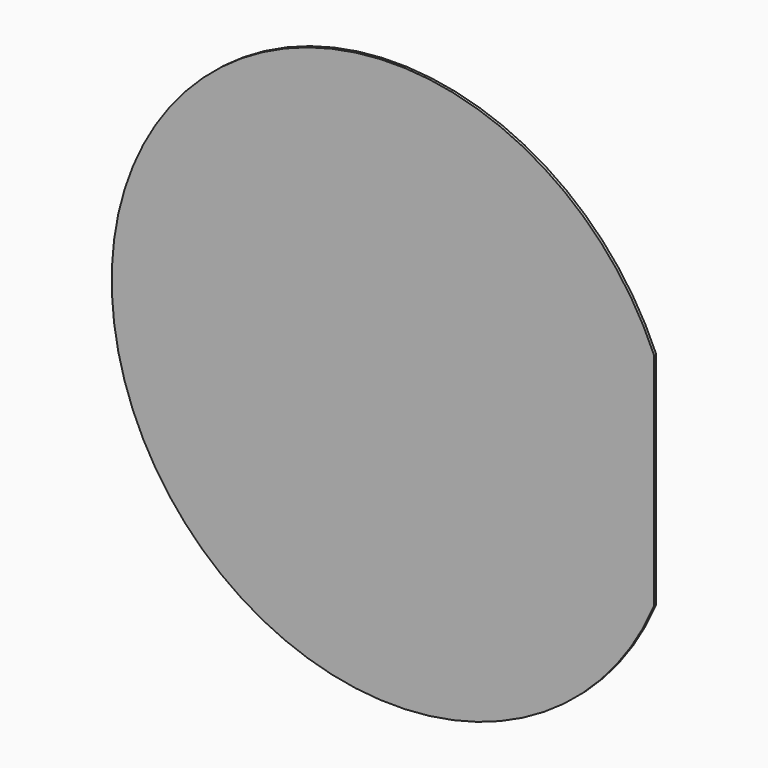
from build123d import *

# Parameters (mm, degrees)
F1_DEPTH = 0.349885


with BuildPart() as f1:
    # F0 (on Front) → F1 (new body, symmetric)
    with BuildSketch(Plane.XZ):
        with BuildLine():
            Line((69, 0), (69, 29.3938769134))
            ThreePointArc((69, 29.3938769134), (-75, 0), (69, -29.3938769134))
            Line((69, -29.3938769134), (69, 0))
        make_face()
    extrude(amount=F1_DEPTH, both=True)


solid = f1.part
